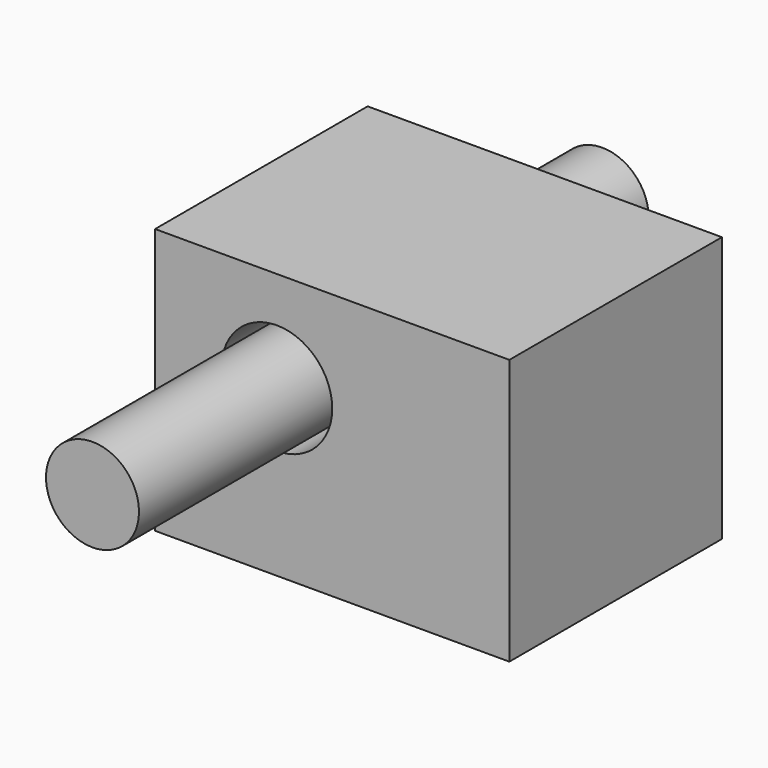
from build123d import *

# Parameters (mm, degrees)
F0_W          = 101.6
F0_H          = 76.2
F0_R          = 15.875
F1_DEPTH      = 76.2
F2_R          = 13.335
F3_DEPTH      = 66.10109
F3_DEPTH_BACK = 116.63167


with BuildPart() as f1:
    # F0 (on Front) → F1 (new body)
    with BuildSketch(Plane.XZ):
        with Locations((50.8, 38.1)):
            Rectangle(F0_W, F0_H)
        with Locations((34.925, 47.370449)):
            Circle(F0_R, mode=Mode.SUBTRACT)
    extrude(amount=F1_DEPTH)


with BuildPart() as f3:
    # F2 (on face) → F3 (new body, two sides)
    with BuildSketch(Plane.XZ.offset(76.2)) as f3_sk:
        with Locations((34.925, 47.370449)):
            Circle(F2_R)
    extrude(amount=F3_DEPTH)
    extrude(f3_sk.sketch, amount=-F3_DEPTH_BACK)


solid = Compound([f1.part, f3.part])
